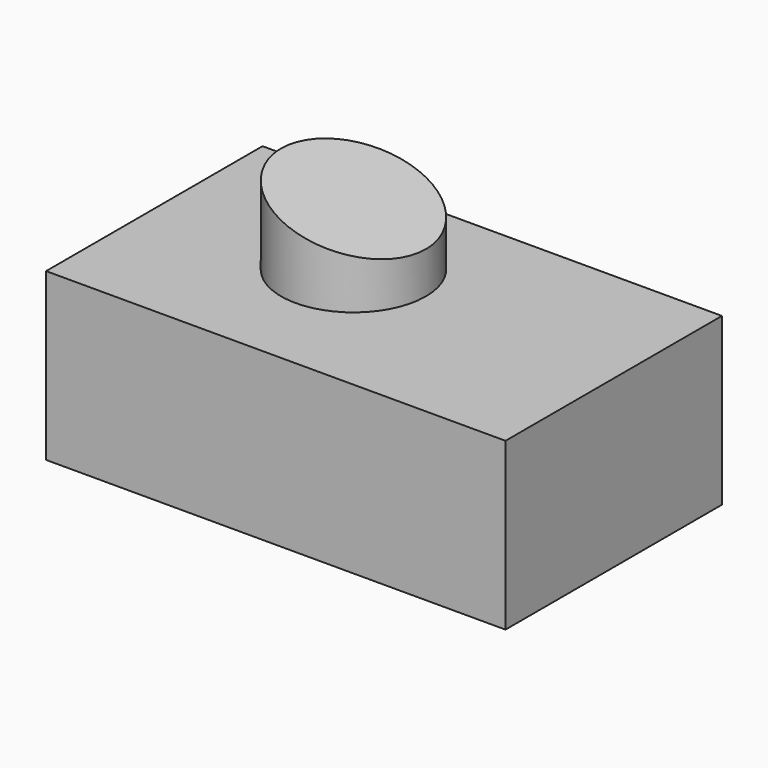
from build123d import *

# Parameters (mm, degrees)
F0_W     = 70.196364
F0_H     = 41.332727
F1_DEPTH = 25.4
F2_R     = 11.06405
F3_DEPTH = 12.7
F5_DEPTH = 58.674


with BuildPart() as f1:
    # F0 (on Top) → F1 (new body)
    with BuildSketch(Plane.XY):
        with Locations((6.696364, -2.540001)):
            Rectangle(F0_W, F0_H)
    extrude(amount=F1_DEPTH)

    # F2 (on face) → F3 (join)
    with BuildSketch(Plane.XY.offset(25.4)):
        Circle(F2_R)
    extrude(amount=F3_DEPTH)

    # F4 (on face) → F5 (cut)
    with BuildSketch(Plane.XZ.offset(23.206364)):
        Polygon((11.06405, 38.1), (-11.06405, 38.1), (11.06405, 31.75), align=None)
    extrude(amount=-F5_DEPTH, mode=Mode.SUBTRACT)


solid = f1.part
